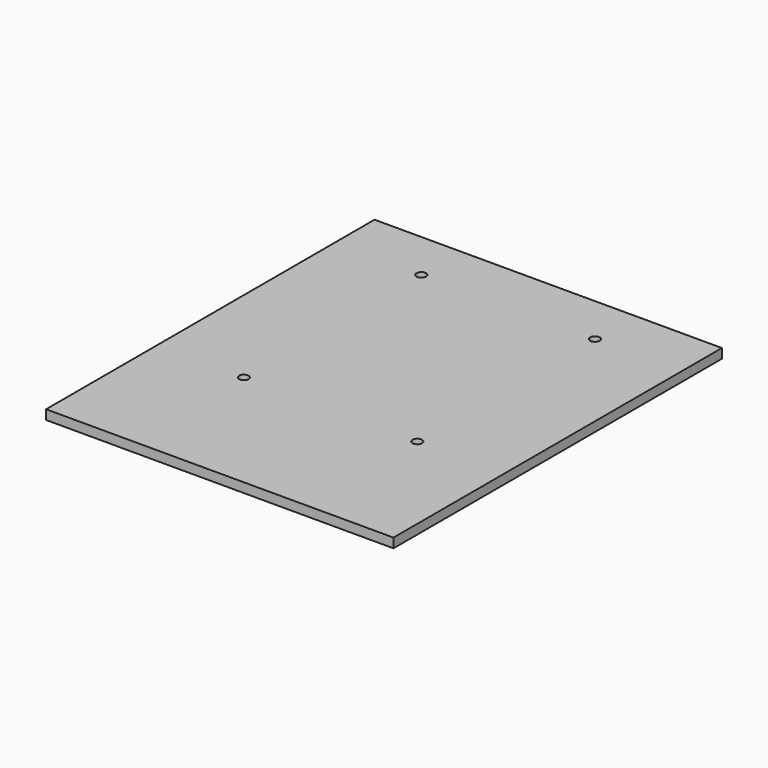
from build123d import *

# Parameters (mm, degrees)
F0_W     = 55
F0_H     = 130
F1_DEPTH = 3
F3_R     = 1.5
F4_DEPTH = 25
F5_R     = 1.5
F6_DEPTH = 25


with BuildPart() as f1:
    # F0 (on Top) → F1 (new body)
    with BuildSketch(Plane.XY):
        with Locations((27.5, 65)):
            Rectangle(F0_W, F0_H)
        with Locations((27.5, 65)):
            Rectangle(F0_W, F0_H)
    extrude(amount=F1_DEPTH)

    # F3 (on face) → F4 (cut)
    with BuildSketch(Plane.XY.offset(3)):
        with Locations((27.4549201131, 43.8495948911)):
            Circle(F3_R)
    extrude(amount=-F4_DEPTH, mode=Mode.SUBTRACT)

    # F5 (on face) → F6 (cut)
    with BuildSketch(Plane.XY.offset(3)):
        with Locations((27.5, 114.1266003251)):
            Circle(F5_R)
    extrude(amount=-F6_DEPTH, mode=Mode.SUBTRACT)

    # F8: F1 across plane


with BuildPart() as f1_1:
    add(f1.part)
    add(f1.part.mirror(Plane.YZ))


solid = f1_1.part
